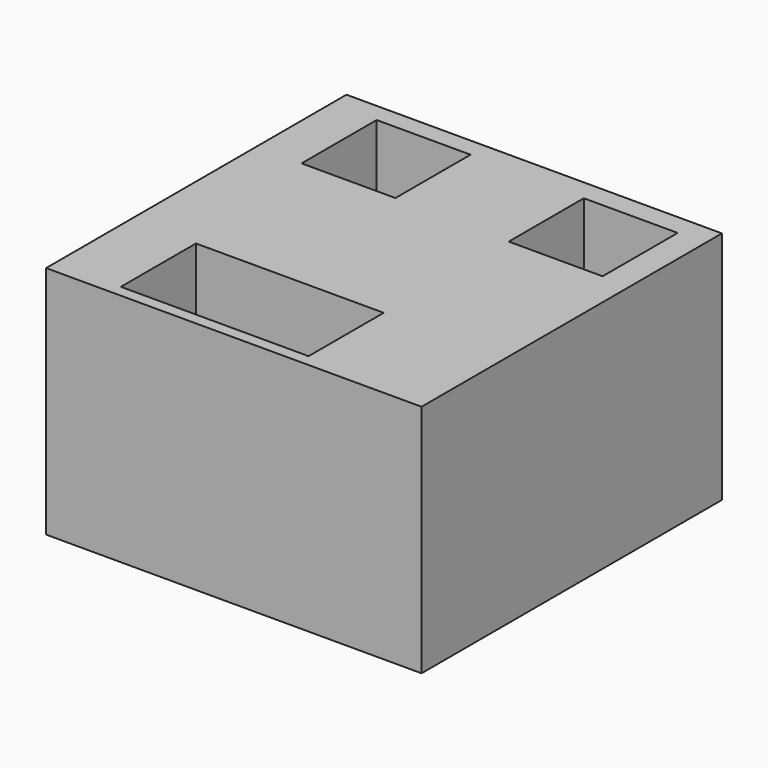
from build123d import *

# Parameters (mm, degrees)
F0_W     = 40
F0_H     = 40
F0_W_2   = 20
F0_H_2   = 10
F0_W_3   = 10
F1_DEPTH = 25


with BuildPart() as f1:
    # F0 (on Top) → F1 (new body)
    with BuildSketch(Plane.XY):
        with Locations((-20, 20)):
            Rectangle(F0_W, F0_H)
        with Locations((-23.031918, 6.250001)):
            Rectangle(F0_W_2, F0_H_2, mode=Mode.SUBTRACT)
        with Locations((-30.186172, 33.005321)):
            Rectangle(F0_W_3, F0_H_2, mode=Mode.SUBTRACT)
        with Locations((-7.925533, 32.76596)):
            Rectangle(F0_W_3, F0_H_2, mode=Mode.SUBTRACT)
    extrude(amount=F1_DEPTH)


solid = f1.part
